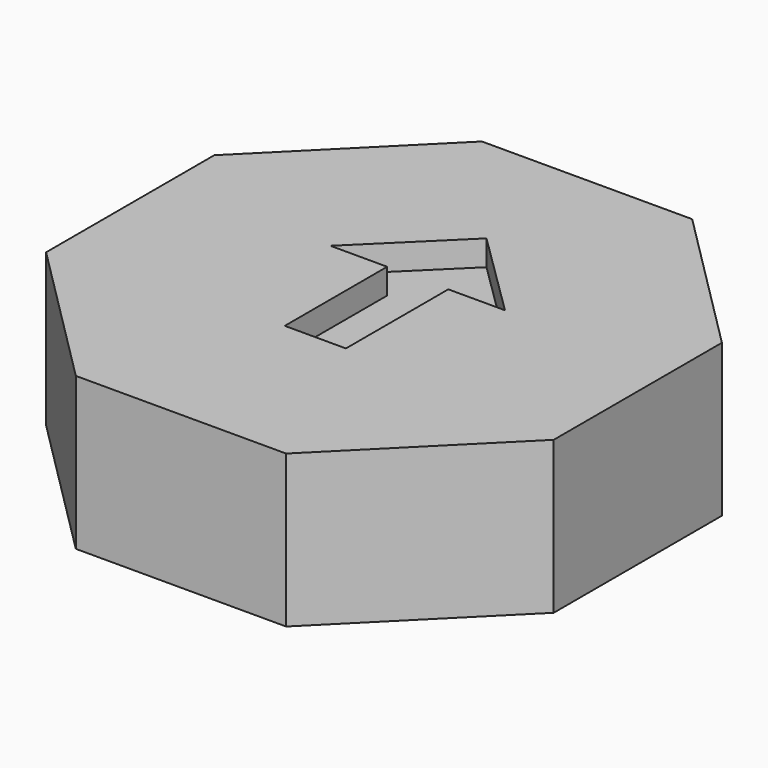
from build123d import *

# Parameters (mm, degrees)
F1_DEPTH = 6
F3_DEPTH = 1


with BuildPart() as f1:
    # F0 (on Top) → F1 (new body)
    with BuildSketch(Plane.XY):
        Polygon((10, -4.142136), (10, 4.142136), (4.142136, 10), (-4.142136, 10), (-10, 4.142136), (-10, -4.142136), (-4.142136, -10), (4.142136, -10), align=None)
    extrude(amount=F1_DEPTH)

    # F2 (on face) → F3 (cut)
    with BuildSketch(Plane.XY.offset(6)):
        Polygon((3.437641, 1.660818), (0, 5.046416), (-3.437641, 1.660818), (-1.204587, 1.660818), (-1.204587, -3.381562), (0, -3.381562), (1.204587, -3.381562), (1.204587, 1.660818), align=None)
    extrude(amount=-F3_DEPTH, mode=Mode.SUBTRACT)


solid = f1.part
